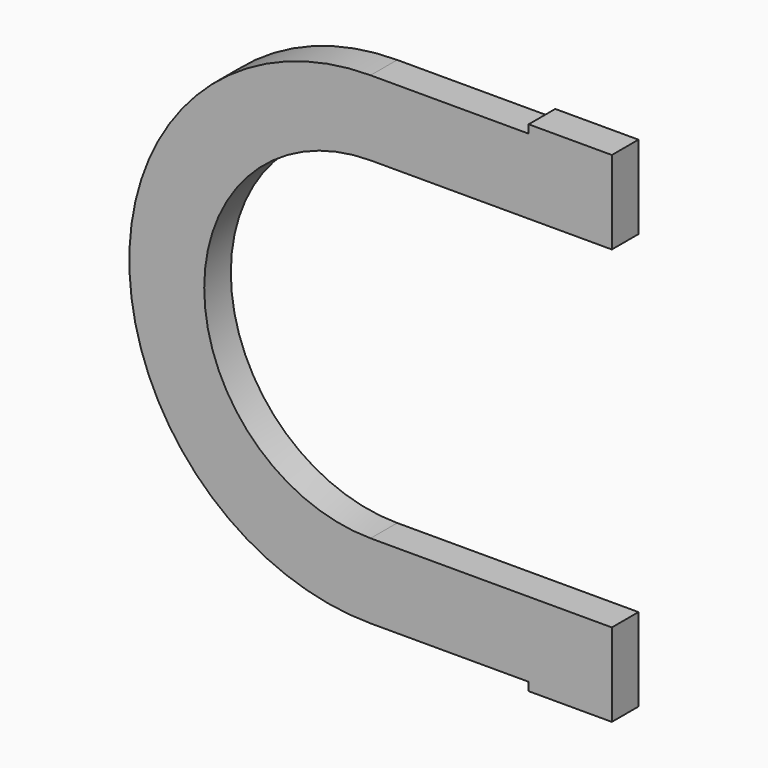
from build123d import *

# Parameters (mm, degrees)
F1_DEPTH = 25.4


with BuildPart() as f1:
    # F0 (on Front) → F1 (new body)
    with BuildSketch(Plane.XZ):
        with BuildLine():
            Line((120.687595, 184.187595), (0, 184.187595))
            ThreePointArc((0, 184.187595), (-184.187595, 0), (0, -184.187595))
            Line((0, -184.187595), (120.687595, -184.187595))
            Line((120.687595, -184.187595), (120.687595, -190.5))
            Line((120.687595, -190.5), (184.187595, -190.5))
            Line((184.187595, -190.5), (184.187595, -184.187595))
            Line((184.187595, -184.187595), (184.187595, -127))
            Line((184.187595, -127), (120.687595, -127))
            Line((120.687595, -127), (0, -127))
            ThreePointArc((0, -127), (-127, 0), (0, 127))
            Line((0, 127), (120.687595, 127))
            Line((120.687595, 127), (184.187595, 127))
            Line((184.187595, 127), (184.187595, 184.187595))
            Line((184.187595, 184.187595), (184.187595, 190.5))
            Line((184.187595, 190.5), (120.687595, 190.5))
            Line((120.687595, 190.5), (120.687595, 184.187595))
        make_face()
    extrude(amount=F1_DEPTH)


solid = f1.part
